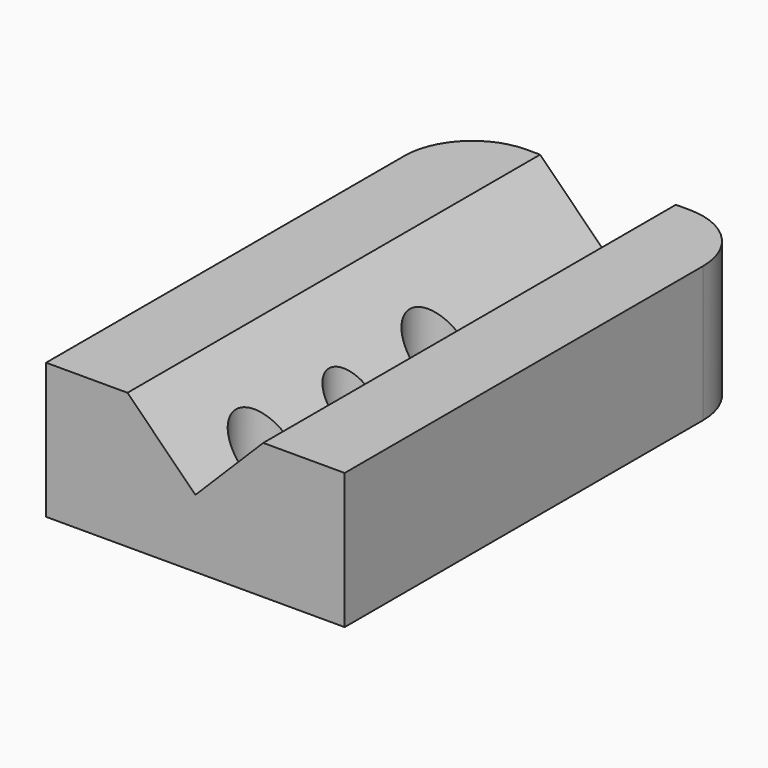
from build123d import *

# Parameters (mm, degrees)
F1_DEPTH = 38
F2_R     = 5
F3_R     = 2.2
F3_R_2   = 1.75
F4_DEPTH = 10.001


with BuildPart() as f1:
    # F0 (on Front) → F1 (new body)
    with BuildSketch(Plane.XZ):
        Polygon((-11, 10), (-11, 0), (11, 0), (11, 10), (5, 10), (0, 5), (-5, 10), align=None)
    extrude(amount=-F1_DEPTH)

    # F2
    f2_edges = [f1.edges().sort_by_distance(p)[0] for p in [
        (11, 38, 5),
        (-11, 38, 5),
    ]]
    fillet(f2_edges, radius=F2_R)

    # F3 (on Top) → F4 (cut, through all)
    with BuildSketch(Plane.XY):
        with Locations((0, 6.5)):
            Circle(F3_R)
        with Locations((0, 22.5)):
            Circle(F3_R)
        with Locations((0, 14.5)):
            Circle(F3_R_2)
    extrude(amount=F4_DEPTH, mode=Mode.SUBTRACT)


solid = f1.part
